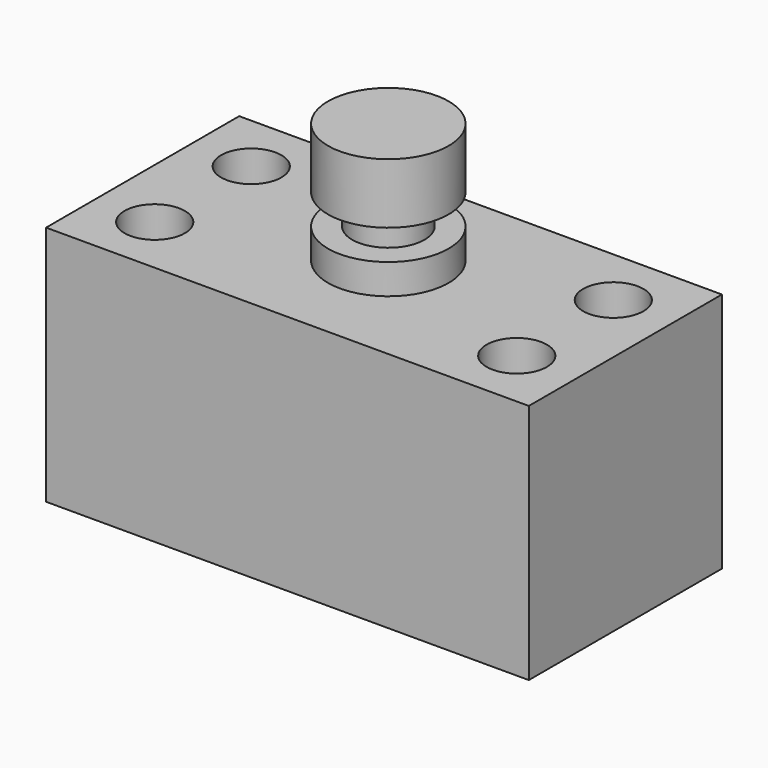
from build123d import *

# Parameters (mm, degrees)
F0_W     = 101.6
F0_H     = 50.8
F1_DEPTH = 50.8
F2_R     = 6.35
F3_DEPTH = 50.801
F4_W     = 12.7
F4_H     = 25.4
F6_W     = 19.9219
F6_H     = 6.35


with BuildPart() as f1:
    # F0 (on Top) → F1 (new body)
    with BuildSketch(Plane.XY):
        with Locations((-0.469463, -0.556229)):
            Rectangle(F0_W, F0_H)
    extrude(amount=F1_DEPTH)

    # F2 (on face) → F3 (cut, through all)
    with BuildSketch(Plane.XY.offset(50.8)):
        with Locations((-38.569463, 12.143771)):
            Circle(F2_R)
        with Locations((37.630537, 12.143771)):
            Circle(F2_R)
        with Locations((37.630537, -13.256229)):
            Circle(F2_R)
        with Locations((-38.569463, -13.256229)):
            Circle(F2_R)
    extrude(amount=-F3_DEPTH, mode=Mode.SUBTRACT)

    # F4 (on Front) → F5 (revolve)
    with BuildSketch(Plane.XZ):
        with Locations((-6.35, 63.5)):
            Rectangle(F4_W, F4_H)
    revolve(axis=Axis((0, 0, 63.5), (0, 0, -1)))

    # F6 (on Front) → F7 (revolve, cut)
    with BuildSketch(Plane.XZ):
        with Locations((-17.58095, 60.325)):
            Rectangle(F6_W, F6_H)
    revolve(axis=Axis((0, 0, 76.2), (0, 0, -1)), mode=Mode.SUBTRACT)


solid = f1.part
